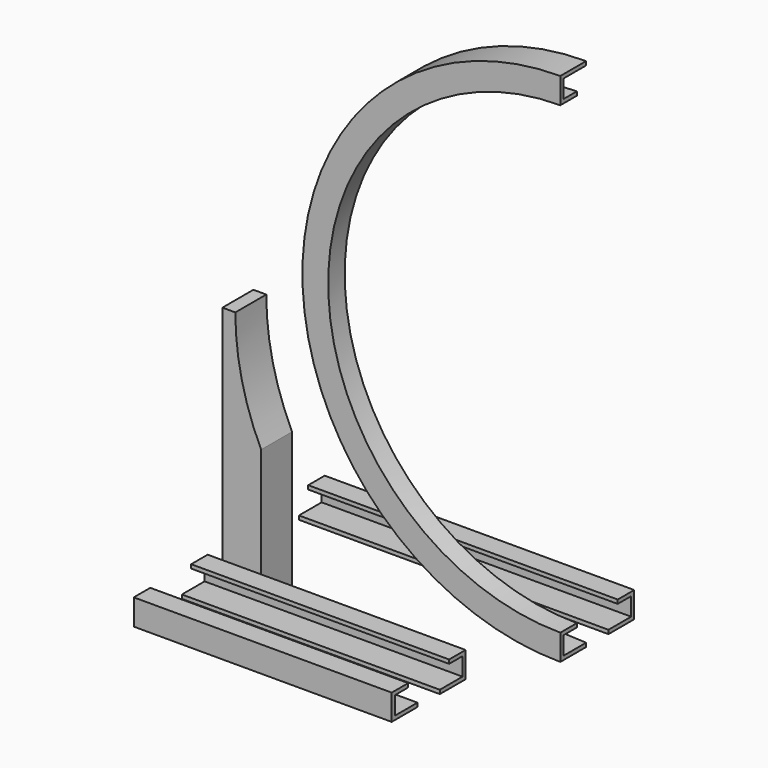
from build123d import *

# Parameters (mm, degrees)
F4_DEPTH = 254
F7_DEPTH = 38.1
F8_DEPTH = 304.8


with BuildPart() as f2:
    # F2: sweep along a path in F1
    with BuildLine(Plane.XZ) as f2_path:
        ThreePointArc((0, 508), (-254, 254), (0, 0))
    # F0 (on Right) → F2 (sweep)
    with BuildSketch(Plane.YZ):
        Polygon((-27.94, 3.81), (-27.94, 21.59), (-11.43, 21.59), (-11.43, 25.4), (-31.75, 25.4), (-31.75, 0), (0, 0), (0, 3.81), align=None)
    sweep(path=f2_path.line)


with BuildPart() as f4:
    # F3 (on Right) → F4 (new body)
    with BuildSketch(Plane.YZ):
        Polygon((-235.50825, 36.203678), (-235.50825, 53.983678), (-218.99825, 53.983678), (-218.99825, 57.793678), (-239.31825, 57.793678), (-239.31825, 32.393678), (-207.56825, 32.393678), (-207.56825, 36.203678), align=None)
        Polygon((-168.642944, 53.983678), (-152.132944, 53.983678), (-152.132944, 36.203678), (-180.072944, 36.203678), (-180.072944, 32.393678), (-148.322944, 32.393678), (-148.322944, 57.793678), (-152.132944, 57.793678), (-168.642944, 57.793678), align=None)
    extrude(amount=-F4_DEPTH)


with BuildPart() as f7:
    # F6 (on offset) → F7 (new body)
    with BuildSketch(Plane.XZ.offset(76.2)):
        with BuildLine():
            Line((-266.7, 254), (-266.7, 0))
            Line((-266.7, 0), (-228.6, 0))
            Line((-228.6, 0), (-228.6, 143.283967))
            ThreePointArc((-228.6, 143.283967), (-247.568576, 197.203873), (-254, 254))
            Line((-254, 254), (-266.7, 254))
        make_face()
    extrude(amount=F7_DEPTH)


with BuildPart() as f8:
    # F0 (on Right) → F8 (new body)
    with BuildSketch(Plane.YZ):
        Polygon((38.925306, 21.59), (55.435306, 21.59), (55.435306, 3.81), (27.495306, 3.81), (27.495306, 0), (59.245306, 0), (59.245306, 25.4), (55.435306, 25.4), (38.925306, 25.4), align=None)
    extrude(amount=-F8_DEPTH)


solid = Compound([f2.part, f4.part, f7.part, f8.part])
